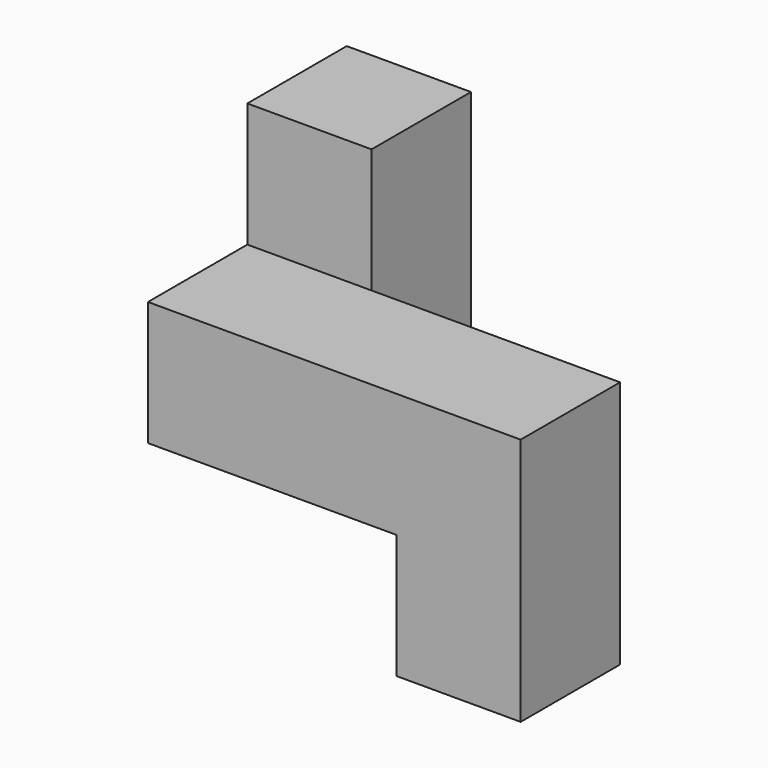
from build123d import *

# Parameters (mm, degrees)
F0_W     = 19.05
F0_H     = 19.05
F1_DEPTH = 38.1
F2_DEPTH = 19.05
F3_DEPTH = 19.05
F4_DEPTH = 19.05
F5_DEPTH = 19.05
F6_W     = 19.05
F6_H     = 19.05
F7_DEPTH = 25.4


with BuildPart() as f1:
    # F0 (on Front) → F1 (new body)
    with BuildSketch(Plane.XZ):
        with Locations((3.710021, -28.575)):
            Rectangle(F0_W, F0_H)
    extrude(amount=F1_DEPTH)

    # F0 (on Front) → F2 (join)
    with BuildSketch(Plane.XZ):
        Polygon((13.235021, 0), (-24.864979, 0), (-24.864979, -19.05), (-5.814979, -19.05), (13.235021, -19.05), align=None)
    extrude(amount=F2_DEPTH)

    # F0 (on Front) → F3 (join)
    with BuildSketch(Plane.XZ):
        with Locations((-34.389979, -9.525)):
            Rectangle(F0_W, F0_H)
    extrude(amount=F3_DEPTH)

    # F0 (on Front) → F4 (join)
    with BuildSketch(Plane.XZ):
        with Locations((-34.389979, -9.525)):
            Rectangle(F0_W, F0_H)
    extrude(amount=-F4_DEPTH)

    # F0 (on Front) → F5 (join)
    with BuildSketch(Plane.XZ):
        with Locations((-34.389979, 9.525)):
            Rectangle(F0_W, F0_H)
    extrude(amount=-F5_DEPTH)

    # F6 (on face) → F7 (cut)
    with BuildSketch(Plane(origin=(-5.814979, 0, 0), x_dir=(0, -1, 0), z_dir=(-1, 0, 0))):
        with Locations((28.575, -28.575)):
            Rectangle(F6_W, F6_H)
    extrude(amount=-F7_DEPTH, mode=Mode.SUBTRACT)


solid = f1.part
